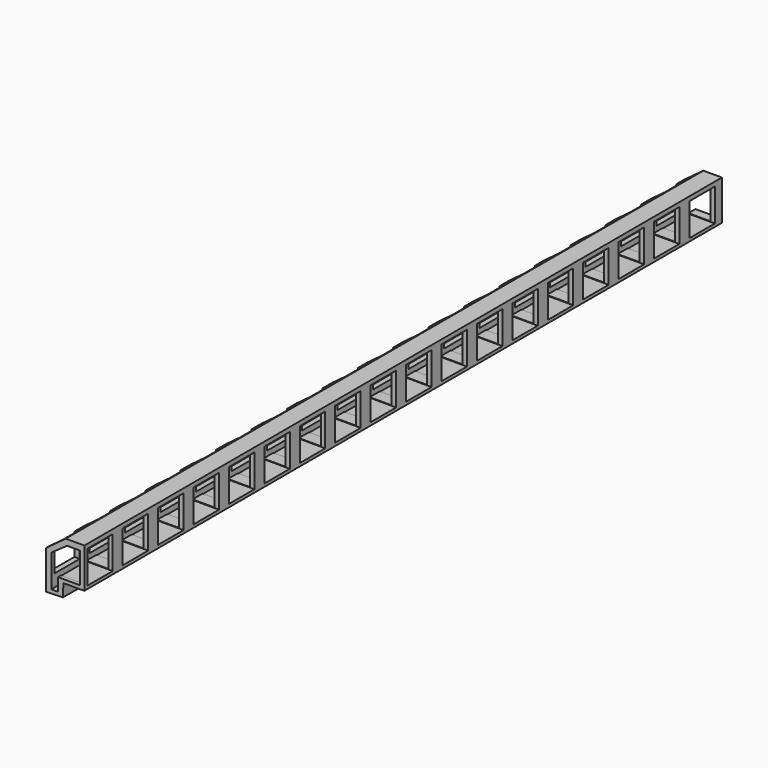
from build123d import *

# Parameters (mm, degrees)
PAD004_DEPTH            = 2500
SKETCH006_W             = 204.184631
SKETCH006_H             = 199.435425
POCKET001_DEPTH         = 240.20852
LINEARPATTERN_COUNT     = 19
LINEARPATTERN_PITCH     = 277.7777777778
BODY004_PLACEMENT_ANGLE = 180


with BuildPart() as part:
    # Sketch005 → Pad004 (new body, symmetric)
    with BuildSketch(Plane.XZ):
        Polygon((-94.833252, 228.286301), (-94.833252, -22.070889), (37.111748, -22.070889), (38.803349, -101.576225), (145.374268, -104.959412), (145.374268, 136.939774), (21.887323, 228.286301), align=None)
        Polygon((-66.961365, 0), (-66.961365, 191.461823), (13.546679, 191.461823), (112.19738, 122.292961), (112.19738, -80.677986), (70.943802, -81.276985), (70.943802, 0), align=None, mode=Mode.SUBTRACT)
    extrude(amount=PAD004_DEPTH, both=True)

    # Sketch006 (on Face1 of Pad004) → Pocket001 (cut, through all)
    with BuildSketch(Plane(origin=(-94.833252, 0, 0), x_dir=(0, 0, -1), z_dir=(-1, 0, 0))):
        with Locations((-98.9306945, -2377.2772825)):
            Rectangle(SKETCH006_W, SKETCH006_H)
    pocket001 = extrude(amount=-POCKET001_DEPTH, mode=Mode.SUBTRACT)

    # LinearPattern: Pocket001 ×19
    with Locations(*[(0, -i * LINEARPATTERN_PITCH, 0) for i in range(1, LINEARPATTERN_COUNT)]):
        add(pocket001, mode=Mode.SUBTRACT)


with BuildPart() as part_1:
    # Body004 placement: moved
    add(part.part.moved(Location((-1415, 0, 511))).rotate(Axis((-1415, 0, 511), (0, 0, 1)), BODY004_PLACEMENT_ANGLE))


solid = part_1.part
